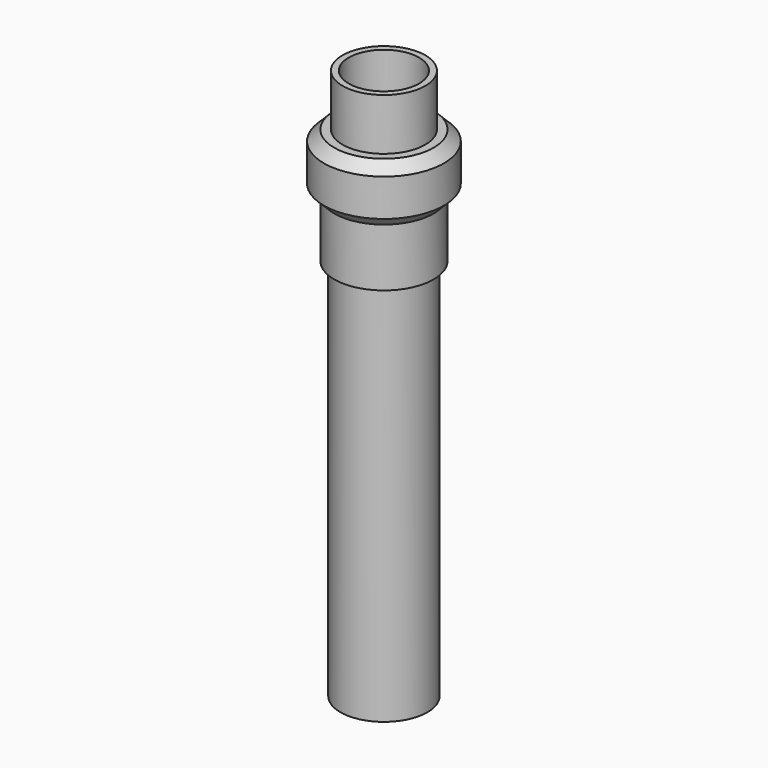
from build123d import *

# Parameters (mm, degrees)
F0_R     = 21
F1_DEPTH = 200
F4_R     = 20
F4_R_2   = 17
F5_DEPTH = 25


with BuildPart() as f1:
    # F0 (on Top) → F1 (new body)
    with BuildSketch(Plane.XY):
        Circle(F0_R)
    extrude(amount=F1_DEPTH)

    # F2 (on Front) → F3 (revolve)
    with BuildSketch(Plane.XZ):
        Polygon((-24, 185), (0, 185), (0, 241), (-24, 241), (-29, 236), (-29, 218), (-24, 213), align=None)
    revolve(axis=Axis((0, 0, 74.559175), (0, 0, 1)))

    # F4 (on face) → F5 (join)
    with BuildSketch(Plane.XY.offset(241)):
        Circle(F4_R)
        Circle(F4_R_2, mode=Mode.SUBTRACT)
    extrude(amount=F5_DEPTH)


solid = f1.part
